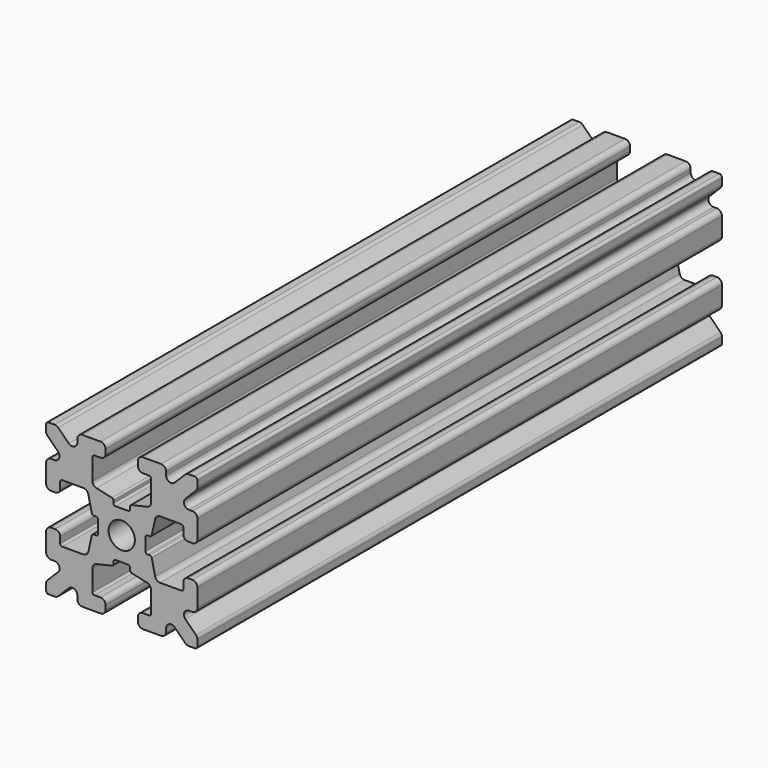
from build123d import *

# Parameters (mm, degrees)
F0_R     = 1.3
F1_DEPTH = 32.5


with BuildPart() as f1:
    # F0 (on Front) → F1 (new body, symmetric)
    with BuildSketch(Plane.XZ):
        with BuildLine():
            ThreePointArc((0.6255, -2.347065), (0.766921, -2.405643), (0.8255, -2.547065))
            Line((0.8255, -2.547065), (0.8255, -2.774891))
            ThreePointArc((0.8255, -2.774891), (0.869378, -2.899894), (0.981758, -2.970049))
            Line((0.981758, -2.970049), (2.509356, -3.312442))
            ThreePointArc((2.509356, -3.312442), (2.790306, -3.487829), (2.9, -3.800337))
            Line((2.9, -3.800337), (2.9, -5.9))
            ThreePointArc((2.9, -5.9), (2.841421, -6.041421), (2.7, -6.1))
            Line((2.7, -6.1), (2.1, -6.1))
            ThreePointArc((2.1, -6.1), (1.746447, -6.246447), (1.6, -6.6))
            Line((1.6, -6.6), (1.6, -7))
            ThreePointArc((1.6, -7), (1.746447, -7.353553), (2.1, -7.5))
            Line((2.1, -7.5), (3.9, -7.5))
            ThreePointArc((3.9, -7.5), (4.253553, -7.353553), (4.4, -7))
            Line((4.4, -7), (4.4, -6.667767))
            ThreePointArc((4.4, -6.667767), (4.708658, -6.205827), (5.253553, -6.314214))
            Line((5.253553, -6.314214), (6.292893, -7.353553))
            ThreePointArc((6.292893, -7.353553), (6.455105, -7.46194), (6.646447, -7.5))
            Line((6.646447, -7.5), (7.25, -7.5))
            ThreePointArc((7.25, -7.5), (7.426777, -7.426777), (7.5, -7.25))
            Line((7.5, -7.25), (7.5, -6.646447))
            ThreePointArc((7.5, -6.646447), (7.46194, -6.455105), (7.353553, -6.292893))
            Line((7.353553, -6.292893), (6.314214, -5.253553))
            ThreePointArc((6.314214, -5.253553), (6.205827, -4.708658), (6.667767, -4.4))
            Line((6.667767, -4.4), (7, -4.4))
            ThreePointArc((7, -4.4), (7.353553, -4.253553), (7.5, -3.9))
            Line((7.5, -3.9), (7.5, -2.1))
            ThreePointArc((7.5, -2.1), (7.353553, -1.746447), (7, -1.6))
            Line((7, -1.6), (6.6, -1.6))
            ThreePointArc((6.6, -1.6), (6.246447, -1.746447), (6.1, -2.1))
            Line((6.1, -2.1), (6.1, -2.7))
            ThreePointArc((6.1, -2.7), (6.041421, -2.841421), (5.9, -2.9))
            Line((5.9, -2.9), (3.800337, -2.9))
            ThreePointArc((3.800337, -2.9), (3.487829, -2.790306), (3.312442, -2.509356))
            Line((3.312442, -2.509356), (2.970049, -0.981758))
            ThreePointArc((2.970049, -0.981758), (2.899894, -0.869378), (2.774891, -0.8255))
            Line((2.774891, -0.8255), (2.547065, -0.8255))
            ThreePointArc((2.547065, -0.8255), (2.405643, -0.766921), (2.347065, -0.6255))
            Line((2.347065, -0.6255), (2.347065, 0.6255))
            ThreePointArc((2.347065, 0.6255), (2.405643, 0.766921), (2.547065, 0.8255))
            Line((2.547065, 0.8255), (2.774891, 0.8255))
            ThreePointArc((2.774891, 0.8255), (2.899894, 0.869378), (2.970049, 0.981758))
            Line((2.970049, 0.981758), (3.312442, 2.509356))
            ThreePointArc((3.312442, 2.509356), (3.487829, 2.790306), (3.800337, 2.9))
            Line((3.800337, 2.9), (5.9, 2.9))
            ThreePointArc((5.9, 2.9), (6.041421, 2.841421), (6.1, 2.7))
            Line((6.1, 2.7), (6.1, 2.1))
            ThreePointArc((6.1, 2.1), (6.246447, 1.746447), (6.6, 1.6))
            Line((6.6, 1.6), (7, 1.6))
            ThreePointArc((7, 1.6), (7.353553, 1.746447), (7.5, 2.1))
            Line((7.5, 2.1), (7.5, 3.9))
            ThreePointArc((7.5, 3.9), (7.353553, 4.253553), (7, 4.4))
            Line((7, 4.4), (6.667767, 4.4))
            ThreePointArc((6.667767, 4.4), (6.205827, 4.708658), (6.314214, 5.253553))
            Line((6.314214, 5.253553), (7.353553, 6.292893))
            ThreePointArc((7.353553, 6.292893), (7.46194, 6.455105), (7.5, 6.646447))
            Line((7.5, 6.646447), (7.5, 7.25))
            ThreePointArc((7.5, 7.25), (7.426777, 7.426777), (7.25, 7.5))
            Line((7.25, 7.5), (6.646447, 7.5))
            ThreePointArc((6.646447, 7.5), (6.455105, 7.46194), (6.292893, 7.353553))
            Line((6.292893, 7.353553), (5.253553, 6.314214))
            ThreePointArc((5.253553, 6.314214), (4.708658, 6.205827), (4.4, 6.667767))
            Line((4.4, 6.667767), (4.4, 7))
            ThreePointArc((4.4, 7), (4.253553, 7.353553), (3.9, 7.5))
            Line((3.9, 7.5), (2.1, 7.5))
            ThreePointArc((2.1, 7.5), (1.746447, 7.353553), (1.6, 7))
            Line((1.6, 7), (1.6, 6.6))
            ThreePointArc((1.6, 6.6), (1.746447, 6.246447), (2.1, 6.1))
            Line((2.1, 6.1), (2.7, 6.1))
            ThreePointArc((2.7, 6.1), (2.841421, 6.041421), (2.9, 5.9))
            Line((2.9, 5.9), (2.9, 3.800337))
            ThreePointArc((2.9, 3.800337), (2.790306, 3.487829), (2.509356, 3.312442))
            Line((2.509356, 3.312442), (0.981758, 2.970049))
            ThreePointArc((0.981758, 2.970049), (0.869378, 2.899894), (0.8255, 2.774891))
            Line((0.8255, 2.774891), (0.8255, 2.547065))
            ThreePointArc((0.8255, 2.547065), (0.766921, 2.405643), (0.6255, 2.347065))
            Line((0.6255, 2.347065), (-0.6255, 2.347065))
            ThreePointArc((-0.6255, 2.347065), (-0.766921, 2.405643), (-0.8255, 2.547065))
            Line((-0.8255, 2.547065), (-0.8255, 2.774891))
            ThreePointArc((-0.8255, 2.774891), (-0.869378, 2.899894), (-0.981758, 2.970049))
            Line((-0.981758, 2.970049), (-2.509356, 3.312442))
            ThreePointArc((-2.509356, 3.312442), (-2.790306, 3.487829), (-2.9, 3.800337))
            Line((-2.9, 3.800337), (-2.9, 5.9))
            ThreePointArc((-2.9, 5.9), (-2.841421, 6.041421), (-2.7, 6.1))
            Line((-2.7, 6.1), (-2.1, 6.1))
            ThreePointArc((-2.1, 6.1), (-1.746447, 6.246447), (-1.6, 6.6))
            Line((-1.6, 6.6), (-1.6, 7))
            ThreePointArc((-1.6, 7), (-1.746447, 7.353553), (-2.1, 7.5))
            Line((-2.1, 7.5), (-3.9, 7.5))
            ThreePointArc((-3.9, 7.5), (-4.253553, 7.353553), (-4.4, 7))
            Line((-4.4, 7), (-4.4, 6.667767))
            ThreePointArc((-4.4, 6.667767), (-4.708658, 6.205827), (-5.253553, 6.314214))
            Line((-5.253553, 6.314214), (-6.292893, 7.353553))
            ThreePointArc((-6.292893, 7.353553), (-6.455105, 7.46194), (-6.646447, 7.5))
            Line((-6.646447, 7.5), (-7.25, 7.5))
            ThreePointArc((-7.25, 7.5), (-7.426777, 7.426777), (-7.5, 7.25))
            Line((-7.5, 7.25), (-7.5, 6.646447))
            ThreePointArc((-7.5, 6.646447), (-7.46194, 6.455105), (-7.353553, 6.292893))
            Line((-7.353553, 6.292893), (-6.314214, 5.253553))
            ThreePointArc((-6.314214, 5.253553), (-6.205827, 4.708658), (-6.667767, 4.4))
            Line((-6.667767, 4.4), (-7, 4.4))
            ThreePointArc((-7, 4.4), (-7.353553, 4.253553), (-7.5, 3.9))
            Line((-7.5, 3.9), (-7.5, 2.1))
            ThreePointArc((-7.5, 2.1), (-7.353553, 1.746447), (-7, 1.6))
            Line((-7, 1.6), (-6.6, 1.6))
            ThreePointArc((-6.6, 1.6), (-6.246447, 1.746447), (-6.1, 2.1))
            Line((-6.1, 2.1), (-6.1, 2.7))
            ThreePointArc((-6.1, 2.7), (-6.041421, 2.841421), (-5.9, 2.9))
            Line((-5.9, 2.9), (-3.800337, 2.9))
            ThreePointArc((-3.800337, 2.9), (-3.487829, 2.790306), (-3.312442, 2.509356))
            Line((-3.312442, 2.509356), (-2.970049, 0.981758))
            ThreePointArc((-2.970049, 0.981758), (-2.899894, 0.869378), (-2.774891, 0.8255))
            Line((-2.774891, 0.8255), (-2.547065, 0.8255))
            ThreePointArc((-2.547065, 0.8255), (-2.405643, 0.766921), (-2.347065, 0.6255))
            Line((-2.347065, 0.6255), (-2.347065, -0.6255))
            ThreePointArc((-2.347065, -0.6255), (-2.405643, -0.766921), (-2.547065, -0.8255))
            Line((-2.547065, -0.8255), (-2.774891, -0.8255))
            ThreePointArc((-2.774891, -0.8255), (-2.899894, -0.869378), (-2.970049, -0.981758))
            Line((-2.970049, -0.981758), (-3.312442, -2.509356))
            ThreePointArc((-3.312442, -2.509356), (-3.487829, -2.790306), (-3.800337, -2.9))
            Line((-3.800337, -2.9), (-5.9, -2.9))
            ThreePointArc((-5.9, -2.9), (-6.041421, -2.841421), (-6.1, -2.7))
            Line((-6.1, -2.7), (-6.1, -2.1))
            ThreePointArc((-6.1, -2.1), (-6.246447, -1.746447), (-6.6, -1.6))
            Line((-6.6, -1.6), (-7, -1.6))
            ThreePointArc((-7, -1.6), (-7.353553, -1.746447), (-7.5, -2.1))
            Line((-7.5, -2.1), (-7.5, -3.9))
            ThreePointArc((-7.5, -3.9), (-7.353553, -4.253553), (-7, -4.4))
            Line((-7, -4.4), (-6.667767, -4.4))
            ThreePointArc((-6.667767, -4.4), (-6.205827, -4.708658), (-6.314214, -5.253553))
            Line((-6.314214, -5.253553), (-7.353553, -6.292893))
            ThreePointArc((-7.353553, -6.292893), (-7.46194, -6.455105), (-7.5, -6.646447))
            Line((-7.5, -6.646447), (-7.5, -7.25))
            ThreePointArc((-7.5, -7.25), (-7.426777, -7.426777), (-7.25, -7.5))
            Line((-7.25, -7.5), (-6.646447, -7.5))
            ThreePointArc((-6.646447, -7.5), (-6.455105, -7.46194), (-6.292893, -7.353553))
            Line((-6.292893, -7.353553), (-5.253553, -6.314214))
            ThreePointArc((-5.253553, -6.314214), (-4.708658, -6.205827), (-4.4, -6.667767))
            Line((-4.4, -6.667767), (-4.4, -7))
            ThreePointArc((-4.4, -7), (-4.253553, -7.353553), (-3.9, -7.5))
            Line((-3.9, -7.5), (-2.1, -7.5))
            ThreePointArc((-2.1, -7.5), (-1.746447, -7.353553), (-1.6, -7))
            Line((-1.6, -7), (-1.6, -6.6))
            ThreePointArc((-1.6, -6.6), (-1.746447, -6.246447), (-2.1, -6.1))
            Line((-2.1, -6.1), (-2.7, -6.1))
            ThreePointArc((-2.7, -6.1), (-2.841421, -6.041421), (-2.9, -5.9))
            Line((-2.9, -5.9), (-2.9, -3.800337))
            ThreePointArc((-2.9, -3.800337), (-2.790306, -3.487829), (-2.509356, -3.312442))
            Line((-2.509356, -3.312442), (-0.981758, -2.970049))
            ThreePointArc((-0.981758, -2.970049), (-0.869378, -2.899894), (-0.8255, -2.774891))
            Line((-0.8255, -2.774891), (-0.8255, -2.547065))
            ThreePointArc((-0.8255, -2.547065), (-0.766921, -2.405643), (-0.6255, -2.347065))
            Line((-0.6255, -2.347065), (0.6255, -2.347065))
        make_face()
        Circle(F0_R, mode=Mode.SUBTRACT)
    extrude(amount=F1_DEPTH, both=True)


solid = f1.part
